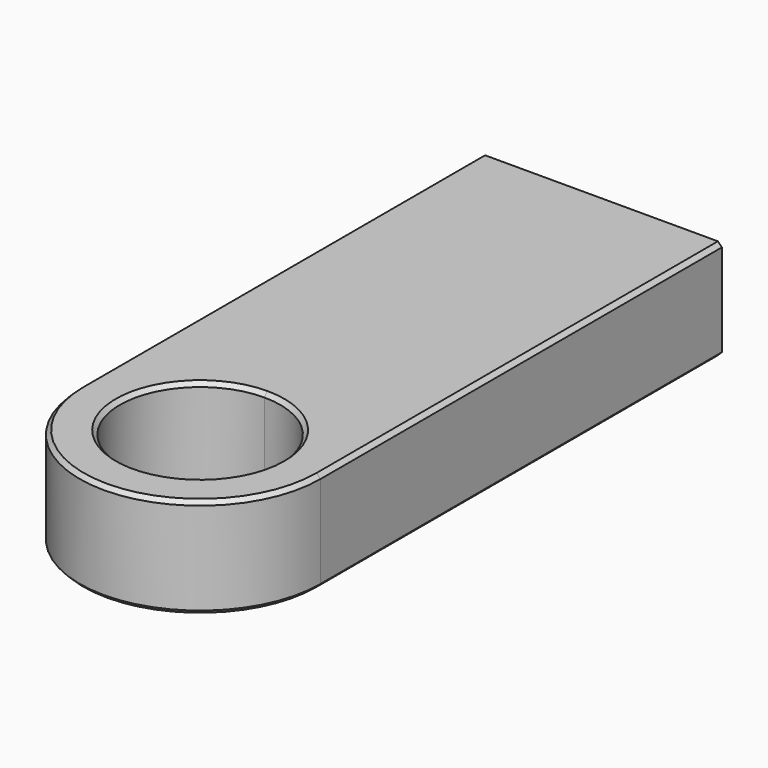
from build123d import *

# Parameters (mm, degrees)
F1_DEPTH = 12.7
F3_DEPTH = 25.4
F4_SIZE  = 0.508
F6_W     = 14.2258834094
F6_H     = 10.6622967869
F7_DEPTH = 50.8


with BuildPart() as f1:
    # F0 (on Top) → F1 (new body)
    with BuildSketch(Plane.XY):
        with BuildLine():
            Line((15.24, -31.75), (15.24, 31.75))
            Line((15.24, 31.75), (-15.24, 31.75))
            Line((-15.24, 31.75), (-15.24, -31.75))
            ThreePointArc((-15.24, -31.75), (-10.7763073453, -20.9736926547), (0, -16.51))
            ThreePointArc((0, -16.51), (10.7763073453, -20.9736926547), (15.24, -31.75))
        make_face()
        with BuildLine():
            ThreePointArc((-15.24, -31.75), (0, -46.99), (15.24, -31.75))
            Line((15.24, -31.75), (0, -31.75))
            Line((0, -31.75), (-15.24, -31.75))
        make_face()
        with BuildLine():
            Line((0, -31.75), (15.24, -31.75))
            ThreePointArc((15.24, -31.75), (10.7763073453, -20.9736926547), (0, -16.51))
            Line((0, -16.51), (0, -31.75))
        make_face()
        with BuildLine():
            ThreePointArc((0, -16.51), (-10.7763073453, -20.9736926547), (-15.24, -31.75))
            Line((-15.24, -31.75), (0, -31.75))
            Line((0, -31.75), (0, -16.51))
        make_face()
    extrude(amount=F1_DEPTH)

    # F2 (on Top) → F3 (cut)
    with BuildSketch(Plane.XY):
        with BuildLine():
            ThreePointArc((10.16, -31.75), (7.1842048969, -24.5657951031), (0, -21.59))
            Line((0, -21.59), (0, -31.75))
            Line((0, -31.75), (10.16, -31.75))
        make_face()
        with BuildLine():
            Line((0, -31.75), (0, -21.59))
            ThreePointArc((0, -21.59), (-7.1842048969, -38.9342048969), (10.16, -31.75))
            Line((10.16, -31.75), (0, -31.75))
        make_face()
    extrude(amount=F3_DEPTH, mode=Mode.SUBTRACT)

    # F4
    f4_edges = [f1.edges().sort_by_distance(p)[0] for p in [
        (-15.24, 0, 12.7),
        (-15.24, 0, 0),
        (0, -41.91, 12.7),
        (0, -41.91, 0),
    ]]
    chamfer(f4_edges, length=F4_SIZE)

    # F6 (on offset) → F7 (cut)
    with BuildSketch(Plane.XZ.offset(-31.75)):
        with Locations((7.1129417047, 6.336113438)):
            Rectangle(F6_W, F6_H)
        with Locations((-7.1129417047, 6.336113438)):
            Rectangle(F6_W, F6_H)
    extrude(amount=F7_DEPTH, mode=Mode.SUBTRACT)


solid = f1.part
